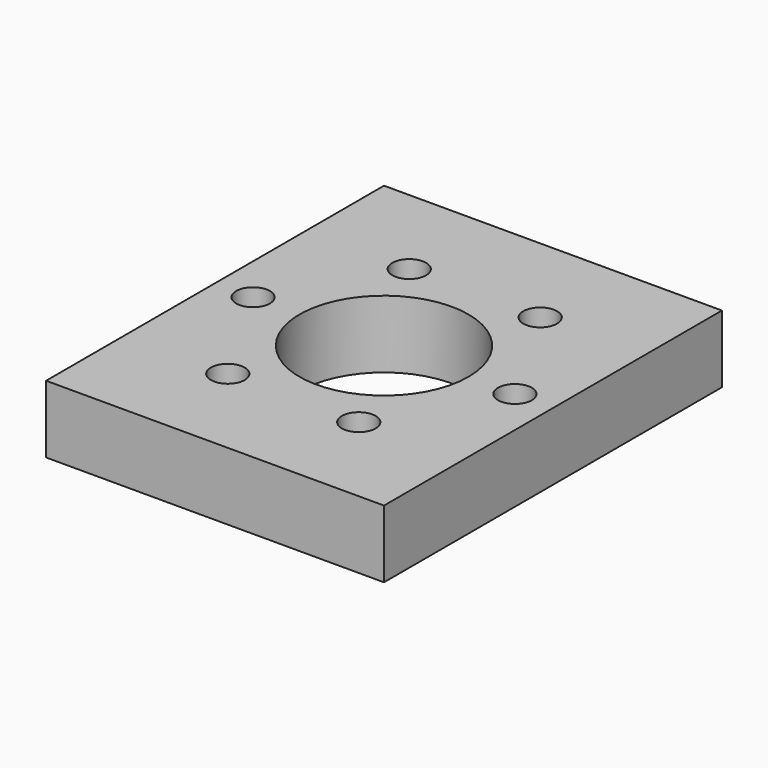
from build123d import *

# Parameters (mm, degrees)
F0_R     = 2
F0_R_2   = 10
F1_DEPTH = 8


with BuildPart() as f1:
    # F0 (on Top) → F1 (new body)
    with BuildSketch(Plane.XY):
        Polygon((20, -25), (20, -19.5), (20, 19.5), (20, 25), (-20, 25), (-20, 19.5), (-20, -19.5), (-20, -25), align=None)
        with Locations((-7.75, -13.423394)):
            Circle(F0_R, mode=Mode.SUBTRACT)
        with Locations((7.75, -13.423394)):
            Circle(F0_R, mode=Mode.SUBTRACT)
        with Locations((-15.5, 0)):
            Circle(F0_R, mode=Mode.SUBTRACT)
        with Locations((-7.75, 13.423394)):
            Circle(F0_R, mode=Mode.SUBTRACT)
        Circle(F0_R_2, mode=Mode.SUBTRACT)
        with Locations((15.5, 0)):
            Circle(F0_R, mode=Mode.SUBTRACT)
        with Locations((7.75, 13.423394)):
            Circle(F0_R, mode=Mode.SUBTRACT)
    extrude(amount=F1_DEPTH)


solid = f1.part
